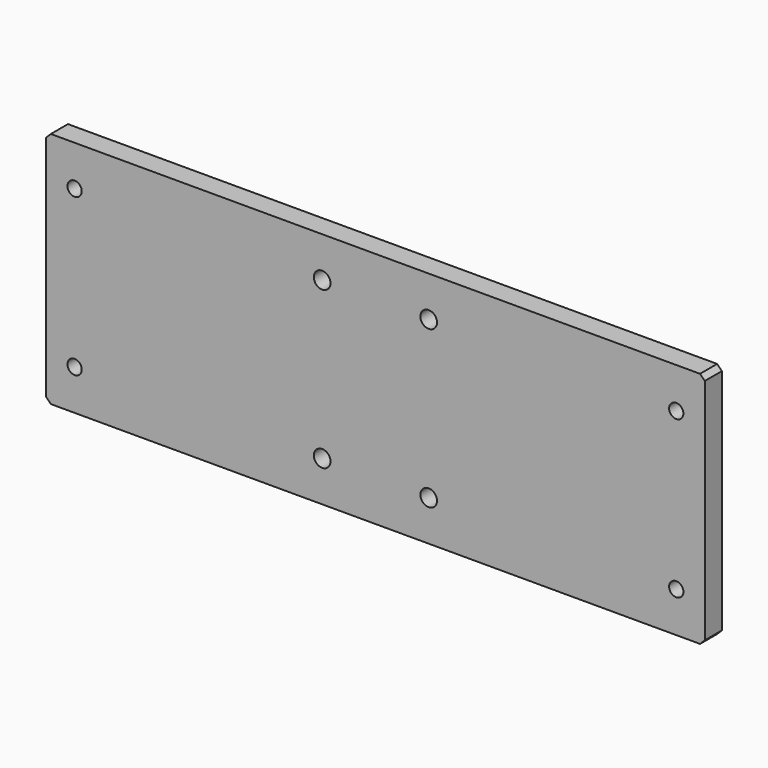
from build123d import *

# Parameters (mm, degrees)
F0_W     = 277
F0_H     = 100
F0_R     = 3
F0_R_2   = 3.5
F1_DEPTH = 9
F2_SIZE  = 2
F3_SIZE  = 2
F4_SIZE  = 2
F5_SIZE  = 2


with BuildPart() as f1:
    # F0 (on Front) → F1 (new body)
    with BuildSketch(Plane.XZ):
        with Locations((138.5, 50)):
            Rectangle(F0_W, F0_H)
        with Locations((12, 17)):
            Circle(F0_R, mode=Mode.SUBTRACT)
        with Locations((116.098186, 17)):
            Circle(F0_R_2, mode=Mode.SUBTRACT)
        with Locations((160.901814, 17)):
            Circle(F0_R_2, mode=Mode.SUBTRACT)
        with Locations((265, 17)):
            Circle(F0_R, mode=Mode.SUBTRACT)
        with Locations((12, 83)):
            Circle(F0_R, mode=Mode.SUBTRACT)
        with Locations((116.098186, 83)):
            Circle(F0_R_2, mode=Mode.SUBTRACT)
        with Locations((160.901814, 83)):
            Circle(F0_R_2, mode=Mode.SUBTRACT)
        with Locations((265, 83)):
            Circle(F0_R, mode=Mode.SUBTRACT)
    extrude(amount=F1_DEPTH)

    # F2
    f2_edges = [f1.edges().sort_by_distance(p)[0] for p in [
        (277, -4.5, 100),
    ]]
    chamfer(f2_edges, length=F2_SIZE)

    # F3
    f3_edges = [f1.edges().sort_by_distance(p)[0] for p in [
        (277, -4.5, 0),
    ]]
    chamfer(f3_edges, length=F3_SIZE)

    # F4
    f4_edges = [f1.edges().sort_by_distance(p)[0] for p in [
        (0, -4.5, 0),
    ]]
    chamfer(f4_edges, length=F4_SIZE)

    # F5
    f5_edges = [f1.edges().sort_by_distance(p)[0] for p in [
        (0, -4.5, 100),
    ]]
    chamfer(f5_edges, length=F5_SIZE)


solid = f1.part
